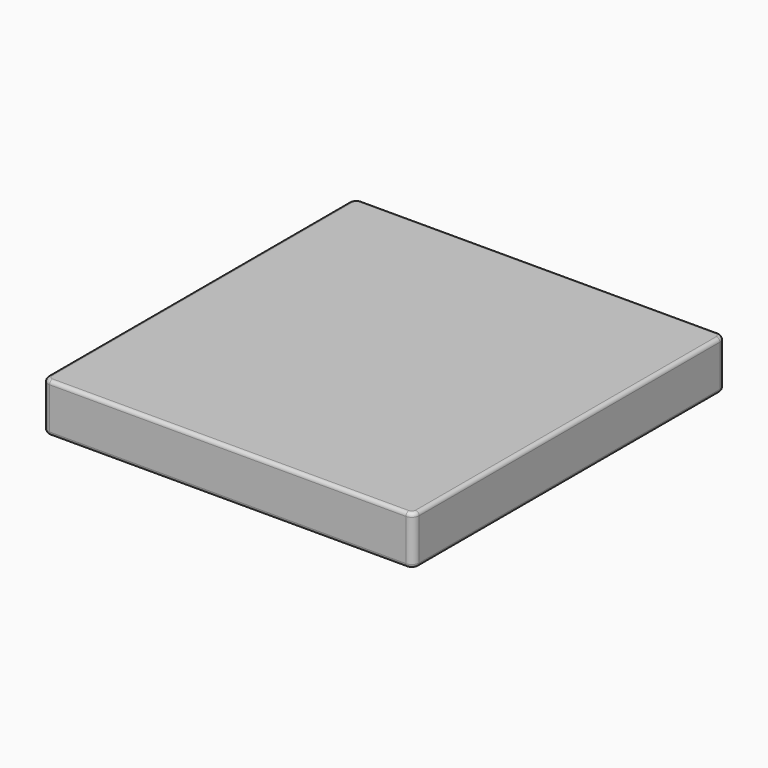
from build123d import *

# Parameters (mm, degrees)
F2_DEPTH = 254
F3_R     = 19.05
F4_R     = 19.05


with BuildPart() as f2:
    # F1 (on Top) → F2 (new body)
    with BuildSketch(Plane.XY):
        with BuildLine():
            ThreePointArc((0, -38.1), (-11.1592316368, -11.1592316368), (-38.1, 0))
            Line((-38.1, 0), (-1892.3, 0))
            ThreePointArc((-1892.3, 0), (-1919.2407683632, -11.1592316368), (-1930.4, -38.1))
            Line((-1930.4, -38.1), (-1930.4, -1993.9))
            ThreePointArc((-1930.4, -1993.9), (-1919.2407683632, -2020.8407683632), (-1892.3, -2032))
            Line((-1892.3, -2032), (-38.1, -2032))
            ThreePointArc((-38.1, -2032), (-11.1592316368, -2020.8407683632), (0, -1993.9))
            Line((0, -1993.9), (0, -38.1))
        make_face()
    extrude(amount=F2_DEPTH)

    # F3
    f3_edges = [f2.edges().sort_by_distance(p)[0] for p in [
        (0, -1016, 254),
        (-11.159232, -11.159232, 254),
        (-965.2, 0, 254),
        (-1919.240768, -11.159232, 254),
        (-1930.4, -1016, 254),
        (-1919.240768, -2020.840768, 254),
        (-965.2, -2032, 254),
        (-11.159232, -2020.840768, 254),
    ]]
    fillet(f3_edges, radius=F3_R)

    # F4
    f4_edges = [f2.edges().sort_by_distance(p)[0] for p in [
        (0, -1016, 0),
        (-11.159232, -11.159232, 0),
        (-965.2, 0, 0),
        (-1919.240768, -11.159232, 0),
        (-1930.4, -1016, 0),
        (-1919.240768, -2020.840768, 0),
        (-965.2, -2032, 0),
        (-11.159232, -2020.840768, 0),
    ]]
    fillet(f4_edges, radius=F4_R)


solid = f2.part
